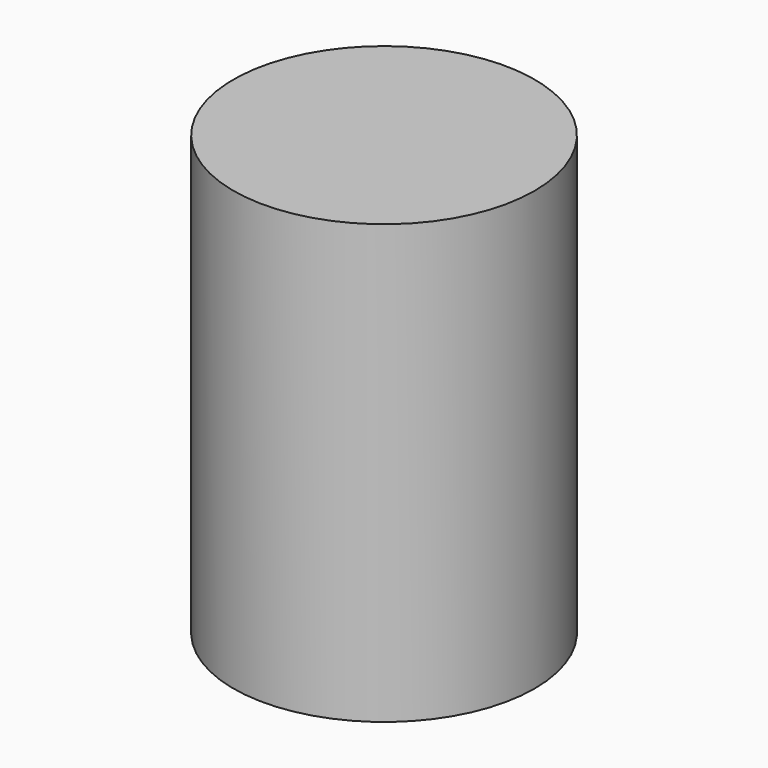
from build123d import *

# Parameters (mm, degrees)
CYLINDER_R     = 5.1562
CYLINDER_DEPTH = 15


with BuildPart() as part:
    # Cylinder → Cylinder (new body)
    with BuildSketch(Plane.XY.offset(-2.5)):
        Circle(CYLINDER_R)
    extrude(amount=CYLINDER_DEPTH)


solid = part.part
